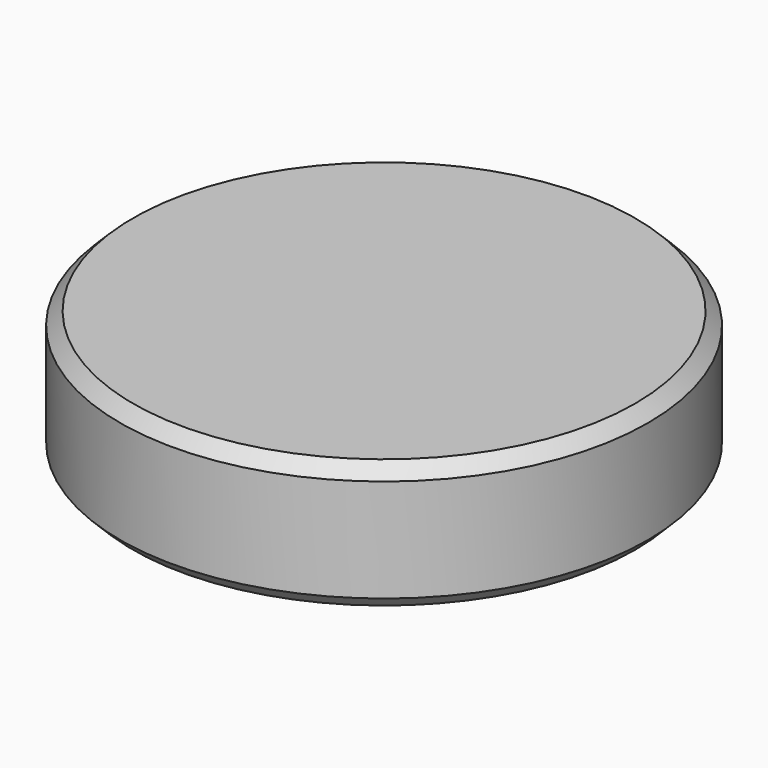
from build123d import *

# Parameters (mm, degrees)
CYLINDER_R     = 4.1
CYLINDER_DEPTH = 2
CHAMFER_SIZE   = 0.2


with BuildPart() as part:
    # Cylinder → Cylinder (join)
    with BuildSketch(Plane.XY):
        Circle(CYLINDER_R)
    extrude(amount=CYLINDER_DEPTH)

    # Chamfer
    chamfer_edges = [part.edges().sort_by_distance(p)[0] for p in [
        (-4.1, 0, 0),
        (-4.1, 0, 2),
    ]]
    chamfer(chamfer_edges, length=CHAMFER_SIZE)


solid = part.part
